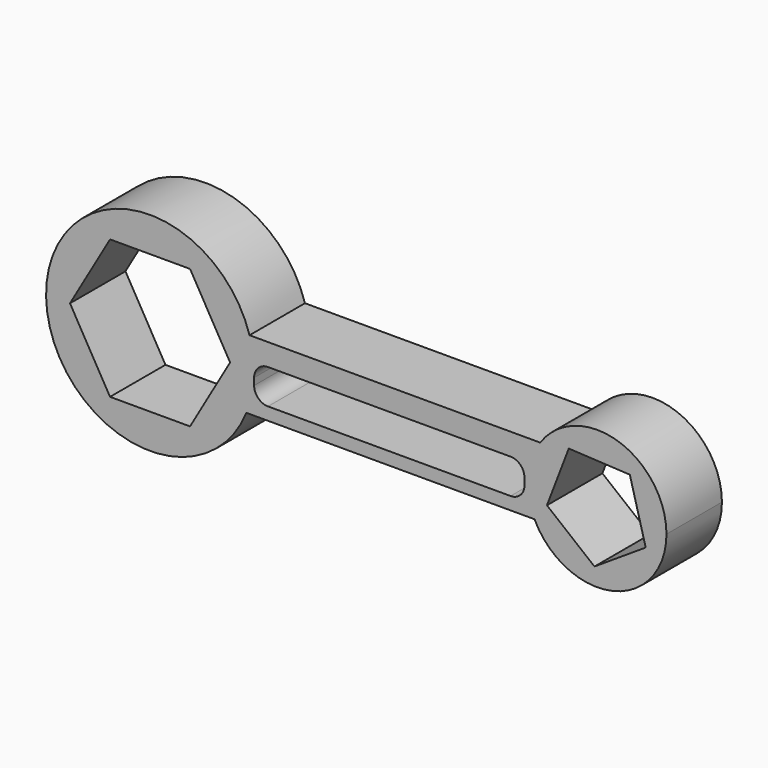
from build123d import *

# Parameters (mm, degrees)
F1_DEPTH = 20


with BuildPart() as f1:
    # F0 (on Front) → F1 (new body)
    with BuildSketch(Plane.XZ):
        with BuildLine():
            ThreePointArc((79.969927, 8.602908), (65.940764, 27.690839), (43.535016, 20))
            ThreePointArc((43.535016, 20), (40.035238, 10.217898), (41.914734, 0))
            ThreePointArc((41.914734, 0), (64.379924, -10.904832), (79.969927, 8.602908))
        make_face()
        Polygon((51.786245, 21.173801), (69.39666, 20.270671), (73.97965, 3.243089), (59.201679, -6.377406), (45.4854, 4.704383), align=None, mode=Mode.SUBTRACT)
        with BuildLine():
            ThreePointArc((-40.33078, 20), (-39.357032, 15.679199), (-39.030073, 11.262118))
            ThreePointArc((-39.030073, 11.262118), (-39.583722, 5.525184), (-41.224234, 0))
            Line((-41.224234, 0), (41.914734, 0))
            ThreePointArc((41.914734, 0), (40.035238, 10.217898), (43.535016, 20))
            Line((43.535016, 20), (-40.33078, 20))
        make_face()
        with BuildLine():
            ThreePointArc((-39, 9.656477), (-37.828427, 12.484904), (-35, 13.656477))
            Line((-35, 13.656477), (35, 13.656477))
            ThreePointArc((35, 13.656477), (37.828427, 12.484904), (39, 9.656477))
            Line((39, 9.656477), (39, 7.656477))
            ThreePointArc((39, 7.656477), (37.828427, 4.828049), (35, 3.656477))
            Line((35, 3.656477), (-35, 3.656477))
            ThreePointArc((-35, 3.656477), (-37.828427, 4.828049), (-39, 7.656477))
            Line((-39, 7.656477), (-39, 9.656477))
        make_face(mode=Mode.SUBTRACT)
        with BuildLine():
            ThreePointArc((-41.224234, 0), (-39.583722, 5.525184), (-39.030073, 11.262118))
            ThreePointArc((-39.030073, 11.262118), (-39.357032, 15.679199), (-40.33078, 20))
            ThreePointArc((-40.33078, 20), (-99.000183, 12.600964), (-41.224234, 0))
        make_face()
        Polygon((-92.124084, 11.262118), (-80.577079, 31.262118), (-57.483068, 31.262118), (-45.936063, 11.262118), (-57.483068, -8.737882), (-80.577079, -8.737882), align=None, mode=Mode.SUBTRACT)
    extrude(amount=F1_DEPTH)


solid = f1.part
